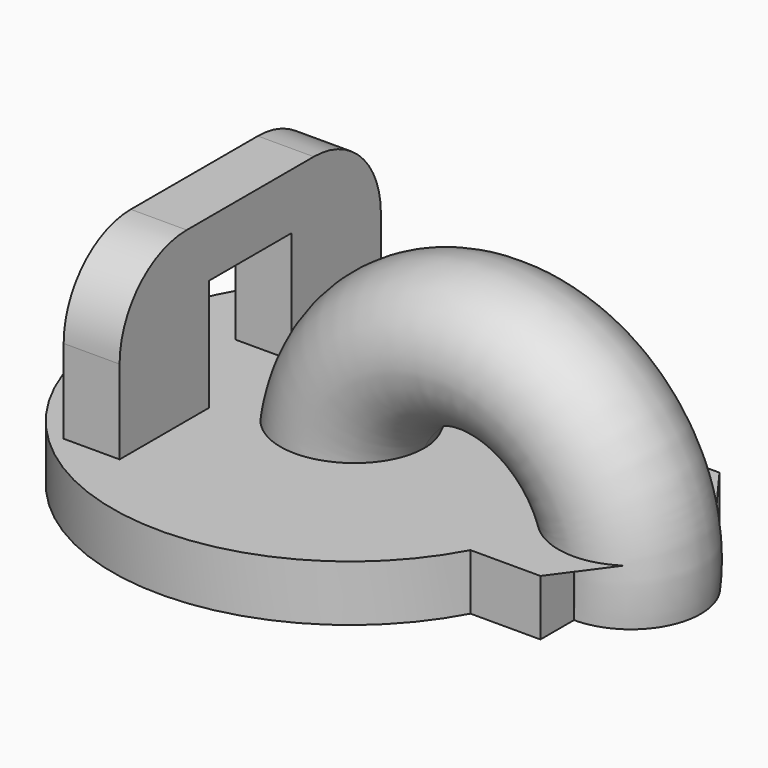
from build123d import *

# Parameters (mm, degrees)
F1_DEPTH  = 2
F7_W      = 31.145259738
F7_H      = 20.1126746833
F8_DEPTH  = 25
F10_DEPTH = 4
F11_W     = 2
F11_H     = 11.6759730271
F12_DEPTH = 2
F13_R     = 3


with BuildPart() as f1:
    # F0 (on Top) → F1 (new body)
    with BuildSketch(Plane.XY):
        with BuildLine():
            ThreePointArc((8.3, 1.833030278), (8.4498520697, 0.9219544457), (8.5, 0))
            ThreePointArc((8.5, 0), (8.4498520697, -0.9219544457), (8.3, -1.833030278))
            ThreePointArc((8.3, -1.833030278), (9.0869216066, -2.3272919558), (10, -2.5))
            Line((10, -2.5), (10, 2.5))
            ThreePointArc((10, 2.5), (9.0869216066, 2.3272919558), (8.3, 1.833030278))
        make_face()
        with BuildLine():
            ThreePointArc((8.3, -1.833030278), (7.5, 0), (8.3, 1.833030278))
            ThreePointArc((8.3, 1.833030278), (7.973953815, 2.9438173442), (7.5, 4))
            Line((7.5, 4), (0, 4))
            Line((0, 4), (0, 2.5))
            ThreePointArc((0, 2.5), (1.767766953, 1.767766953), (2.5, 0))
            ThreePointArc((2.5, 0), (1.767766953, -1.767766953), (0, -2.5))
            Line((0, -2.5), (0, -4))
            Line((0, -4), (7.5, -4))
            ThreePointArc((7.5, -4), (7.973953815, -2.9438173442), (8.3, -1.833030278))
        make_face()
        with BuildLine():
            ThreePointArc((7.5, 4), (7.973953815, 2.9438173442), (8.3, 1.833030278))
            ThreePointArc((8.3, 1.833030278), (9.0869216066, 2.3272919558), (10, 2.5))
            Line((10, 2.5), (10, 4))
            Line((10, 4), (7.5, 4))
        make_face()
        with BuildLine():
            ThreePointArc((10, -2.5), (9.0869216066, -2.3272919558), (8.3, -1.833030278))
            ThreePointArc((8.3, -1.833030278), (7.973953815, -2.9438173442), (7.5, -4))
            Line((7.5, -4), (10, -4))
            Line((10, -4), (10, -2.5))
        make_face()
        with BuildLine():
            Line((0, 4), (7.5, 4))
            ThreePointArc((7.5, 4), (-8.5, 0), (7.5, -4))
            Line((7.5, -4), (0, -4))
            Line((0, -4), (0, -2.5))
            ThreePointArc((0, -2.5), (-2.5, 0), (0, 2.5))
            Line((0, 2.5), (0, 4))
        make_face()
        with BuildLine():
            ThreePointArc((12.5, 0), (11.767766953, 1.767766953), (10, 2.5))
            Line((10, 2.5), (10, -2.5))
            ThreePointArc((10, -2.5), (11.767766953, -1.767766953), (12.5, 0))
        make_face()
        with BuildLine():
            ThreePointArc((8.3, -1.833030278), (8.4498520697, -0.9219544457), (8.5, 0))
            ThreePointArc((8.5, 0), (8.4498520697, 0.9219544457), (8.3, 1.833030278))
            ThreePointArc((8.3, 1.833030278), (7.5, 0), (8.3, -1.833030278))
        make_face()
        with BuildLine():
            ThreePointArc((2.5, 0), (1.767766953, 1.767766953), (0, 2.5))
            Line((0, 2.5), (0, -2.5))
            ThreePointArc((0, -2.5), (1.767766953, -1.767766953), (2.5, 0))
        make_face()
        with BuildLine():
            Line((0, -2.5), (0, 2.5))
            ThreePointArc((0, 2.5), (-2.5, 0), (0, -2.5))
        make_face()
    extrude(amount=F1_DEPTH)

    # F6: sweep along a path in F5
    with BuildLine(Plane(origin=(0, 0, 0), x_dir=(-1, 0, 0), z_dir=(0, 1, 0))) as f6_path:
        ThreePointArc((0, 0), (-5, 6.024653635), (-10, 0))
    # F3 (on line) → F6 (sweep)
    with BuildSketch(Plane.YZ.offset(5)):
        with BuildLine():
            ThreePointArc((0, 3.524653635), (1.767766953, 4.256886682), (2.5, 6.024653635))
            ThreePointArc((2.5, 6.024653635), (-1.767766953, 7.792420588), (0, 3.524653635))
        make_face()
    sweep(path=f6_path.line)

    # F7 (on Top) → F8 (cut)
    with BuildSketch(Plane.XY):
        Rectangle(F7_W, F7_H)
    extrude(amount=-F8_DEPTH, mode=Mode.SUBTRACT)

    # F9 (on face) → F10 (join)
    with BuildSketch(Plane.XY.offset(2)):
        Polygon((-3.5739342159, 1.8379865136), (-3.5739342159, 2.9988868824), (-3.5739342159, 5.8379865136), (-5.5739342159, 5.8379865136), (-5.5739342159, 1.8379865136), align=None)
        Polygon((-3.5739342159, -5.8379865136), (-3.5739342159, -2.9988868824), (-3.5739342159, -1.8379865136), (-5.5739342159, -1.8379865136), (-5.5739342159, -5.8379865136), align=None)
    extrude(amount=F10_DEPTH)

    # F11 (on face) → F12 (join)
    with BuildSketch(Plane.XY.offset(6)):
        with Locations((-4.5739342159, 0)):
            Rectangle(F11_W, F11_H)
    extrude(amount=F12_DEPTH)

    # F13
    f13_edges = [f1.edges().sort_by_distance(p)[0] for p in [
        (-4.573934, -5.837987, 8),
        (-4.573934, 5.837987, 8),
    ]]
    fillet(f13_edges, radius=F13_R)


solid = f1.part
